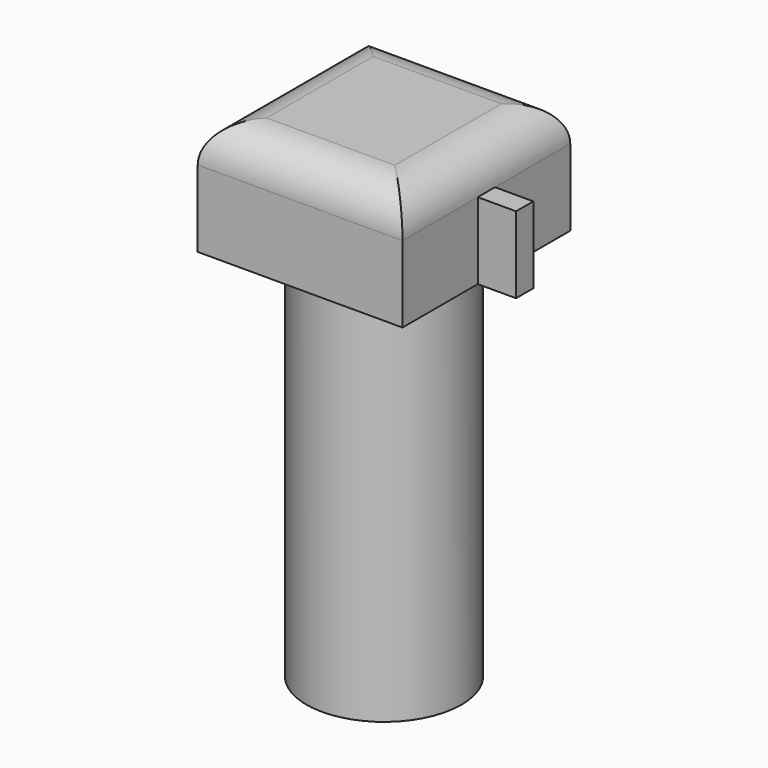
from build123d import *

# Parameters (mm, degrees)
F0_R     = 51.425526
F1_DEPTH = 254
F2_W     = 135.8829
F2_H     = 139.160782
F3_DEPTH = 76.2
F4_R     = 25.4
F5_W     = 14.30345
F5_H     = 50.8
F6_DEPTH = 25.4


with BuildPart() as f1:
    # F0 (on Top) → F1 (new body)
    with BuildSketch(Plane.XY):
        Circle(F0_R)
    extrude(amount=F1_DEPTH)

    # F2 (on face) → F3 (join)
    with BuildSketch(Plane.XY.offset(254)):
        Rectangle(F2_W, F2_H)
    extrude(amount=F3_DEPTH)

    # F4
    f4_edges = [f1.edges().sort_by_distance(p)[0] for p in [
        (67.94145, 0, 330.2),
        (0, 69.580391, 330.2),
        (-67.94145, 0, 330.2),
        (0, -69.580391, 330.2),
    ]]
    fillet(f4_edges, radius=F4_R)

    # F5 (on face) → F6 (join)
    with BuildSketch(Plane.YZ.offset(67.94145)):
        with Locations((0, 279.4)):
            Rectangle(F5_W, F5_H)
    extrude(amount=F6_DEPTH)


solid = f1.part
